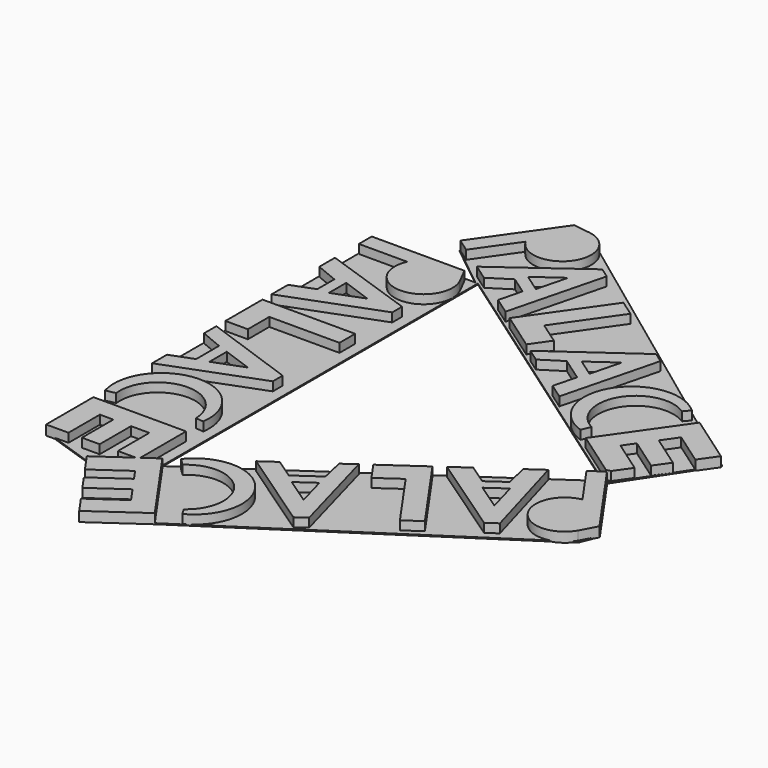
from build123d import *

# Parameters (mm, degrees)
F2_DEPTH = 1
F3_DEPTH = 10


with BuildPart() as f2:
    # F1 (on Top) → F2 (new body)
    with BuildSketch(Plane.XY):
        Polygon((-226.83852911, 285.3676080704), (-330.4502665997, 285.3676080704), (-330.4502665997, -127.9011815786), (-275.1610279083, -146.5770155191), (-217.2150909901, -228.7170141935), (99.112868309, -21.2409384549), (114.4544035196, -11.0132452101), (121.75989151, 7.2504929267), (69.1187903285, 82.455560565), (99.112868309, 127.9149800539), (121.75989151, 162.2391065877), (-183.9673221111, 388.3162736893), (-197.1797352515, 397.0338102196), (-216.9105261564, 397.0338102196), (-271.2074220181, 320.6196725369), align=None)
        Polygon((-224.5237231255, -116.2474501983), (-224.5237231255, 285.3676080704), (64.9221166968, 82.455560565), align=None, mode=Mode.SUBTRACT)
    extrude(amount=F2_DEPTH)

    # F0 (on Top) → F3 (join)
    with BuildSketch(Plane.XY):
        with BuildLine():
            Line((-227.3512201192, 265.8828980349), (-235.6984035852, 282.239127817))
            Line((-235.6984035852, 282.239127817), (-329.7849016073, 282.239127817))
            Line((-329.7849016073, 282.239127817), (-329.7849016073, 265.8828980349))
            Line((-329.7849016073, 265.8828980349), (-280.6508259656, 265.8828980349))
            ThreePointArc((-280.6508259656, 265.8828980349), (-254.0010230424, 224.069859552), (-227.3512201192, 265.8828980349))
        make_face()
        Polygon((-235.6984035852, 203.1585759543), (-329.7849016073, 235.5661428593), (-329.7849016073, 215.7034463309), (-307.015478478, 206.2948084496), (-307.015478478, 184.5798344636), (-329.7849016073, 175.978053274), (-329.7849016073, 155.0699359797), (-235.6984035852, 190.6137204789), align=None)
        Polygon((-295.8364410133, 185.4400217375), (-295.8364410133, 207.4587263802), (-265.8109271711, 196.782992471), align=None, mode=Mode.SUBTRACT)
        Polygon((-235.6984035852, 123.7077749394), (-235.6984035852, 143.5704714678), (-329.7849016073, 143.5704714678), (-329.7849016073, 96.5272448085), (-307.015478478, 96.5272448085), (-307.015478478, 123.7077749394), align=None)
        Polygon((-235.6984035852, 51.5748093896), (-329.7849016073, 85.0277728461), (-329.7849016073, 69.3753733359), (-307.015478478, 59.9667354547), (-307.015478478, 30.9052338177), (-329.7849016073, 22.3034526281), (-329.7849016073, 3.4861610331), (-235.6984035852, 39.0299455322), align=None)
        Polygon((-295.9159033182, 33.8996112406), (-295.9159033182, 55.9183158833), (-265.890389476, 45.2425819742), align=None, mode=Mode.SUBTRACT)
        Polygon((-235.6984035852, -71.0359775402), (-329.7849016073, -71.0359775402), (-329.7849016073, -131.0788803674), (-307.015478478, -131.0788803674), (-307.015478478, -91.2322440125), (-293.3984415414, -91.2322440125), (-293.3984415414, -131.0788803674), (-275.3855602624, -131.0788803674), (-275.3855602624, -91.2322440125), (-256.8268494489, -91.2322440125), (-256.8268494489, -131.0788803674), (-238.5353398542, -131.0788803674), (-235.6984035852, -129.0924362064), align=None)
        Polygon((-221.3561364008, -119.0498726089), (-235.6984035852, -129.0924362064), (-235.6984035852, -131.0788803674), (-238.5353398542, -131.0788803674), (-270.5404029968, -153.4890668407), (-257.4803984205, -172.1406863443), (-224.8399447923, -149.2855946633), (-217.0295332726, -160.440018307), (-249.6699869008, -183.2951099881), (-239.3382226484, -198.0503985113), (-206.6977690202, -175.1953068303), (-196.0529298085, -190.3977127325), (-228.6933834367, -213.2528044136), (-216.5746047525, -230.5602140355), (-167.3903381565, -196.1210198036), align=None)
        Polygon((-235.6984035852, -131.0788803674), (-235.6984035852, -129.0924362064), (-238.5353398542, -131.0788803674), align=None)
        with BuildLine():
            Line((-243.7297092712, -48.4571140093), (-235.6984035852, -49.2022001125))
            ThreePointArc((-235.6984035852, -49.2022001125), (-287.1351686439, 5.5040811462), (-329.7849016073, -56.2981703259))
            Line((-329.7849016073, -56.2981703259), (-320.0046324228, -54.2623124856))
            ThreePointArc((-320.0046324228, -54.2623124856), (-284.9299131703, -11.1181200793), (-243.7297092712, -48.4571140093))
        make_face()
        with BuildLine():
            Line((113.3851952763, -9.7099042121), (121.9956865932, 6.5092561787))
            Line((121.9956865932, 6.5092561787), (69.1715097794, 81.949999003))
            Line((69.1715097794, 81.949999003), (67.0141277629, 82.8691601541))
            Line((67.0141277629, 82.8691601541), (54.6316492861, 74.1988553829))
            Line((54.6316492861, 74.1988553829), (82.813797296, 33.9505768768))
            ThreePointArc((82.813797296, 33.9505768768), (63.8482603349, -11.8626372737), (113.3851952763, -9.7099042121))
        make_face()
        Polygon((57.2166908714, -38.8494849434), (29.7976173078, 56.8098789875), (13.5270488414, 45.4171042964), (18.8799484633, 21.3689118059), (1.0920831309, 8.9137144116), (-19.0140880913, 22.6315549142), (-36.1410151152, 10.6391515058), (46.9405468634, -46.0449184416), align=None)
        Polygon((8.2087397657, 0.2497661704), (26.2454066863, 12.8791763124), (34.7222846596, -17.8396341433), align=None, mode=Mode.SUBTRACT)
        Polygon((-7.8655952004, -84.4205922548), (8.404973266, -73.0278175637), (-45.5608249783, 4.0433296311), (-84.0963802662, -22.9395566706), (-71.0363756899, -41.5911761742), (-48.7713888684, -26.0010645637), align=None)
        Polygon((-66.9534613912, -125.7943615783), (-93.5161962325, -29.5353828187), (-106.3378912893, -38.5132303501), (-100.9849916674, -62.5614228406), (-124.7907801434, -79.2304153846), (-144.8969513657, -65.5125748819), (-160.3111742437, -76.3057299368), (-77.2296122652, -132.9897998841), align=None)
        Polygon((-115.9714749909, -86.6051507361), (-97.9348080703, -73.9757405941), (-89.457930097, -104.6945510498), align=None, mode=Mode.SUBTRACT)
        with BuildLine():
            Line((-153.5013836321, -176.5914552517), (-149.5051547421, -183.5976795546))
            ThreePointArc((-149.5051547421, -183.5976795546), (-134.1953090135, -110.0849144548), (-209.2836314929, -110.5966136673))
            Line((-209.2836314929, -110.5966136673), (-202.0062224357, -117.4404210785))
            ThreePointArc((-202.0062224357, -117.4404210785), (-146.5465365521, -121.4254569274), (-153.5013836321, -176.5914552517))
        make_face()
        with BuildLine():
            Line((-198.3886179437, 395.177085192), (-216.5746047525, 397.7210207824))
            Line((-216.5746047525, 397.7210207824), (-270.5404029968, 320.6498735876))
            Line((-270.5404029968, 320.6498735876), (-257.1421639339, 311.268325597))
            Line((-257.1421639339, 311.268325597), (-228.960015924, 351.5166041031))
            ThreePointArc((-228.960015924, 351.5166041031), (-179.4230809826, 349.3638710415), (-198.3886179437, 395.177085192))
        make_face()
        Polygon((-151.7956090307, 352.3622796603), (-232.3081319556, 293.8793492017), (-216.0375634893, 282.4865745106), (-195.2704539586, 295.7416210274), (-177.4825886262, 283.286423633), (-183.4964265565, 259.7010251284), (-166.3694995327, 247.7086217199), (-141.5194650227, 345.1668461621), align=None)
        Polygon((-171.7751803193, 292.9371381766), (-189.8118472399, 305.5665483186), (-163.8448707548, 324.0386599522), align=None, mode=Mode.SUBTRACT)
        Polygon((-86.7133229589, 306.7911723489), (-102.9838914253, 318.18394704), (-156.9496896695, 241.1127998452), (-118.4141343816, 214.1299135435), (-105.3541298054, 232.7815330472), (-127.6191166269, 248.3716446578), align=None)
        Polygon((-27.6254567682, 265.4174030254), (-108.9943184153, 207.5340873954), (-96.1726233586, 198.556239864), (-75.4055138279, 211.8112863808), (-51.5997253518, 195.1422938369), (-57.6135632822, 171.5568953322), (-42.1993404041, 160.7637402774), (-17.3493058941, 258.2219647196), align=None)
        Polygon((-47.6861209741, 205.9520378511), (-65.7227878947, 218.5814479931), (-39.7558114095, 237.0535596267), align=None, mode=Mode.SUBTRACT)
        Polygon((72.8114199972, 195.0907448001), (18.845621753, 118.0195976053), (65.6599034389, 85.2398846729), (70.0077556566, 86.4050906265), (81.0898929252, 102.2320228771), (48.449439297, 125.0871145581), (56.2598508168, 136.2415382019), (88.9003044449, 113.3864465208), (99.2320686974, 128.141735044), (66.5916150692, 150.9968267251), (77.2364542809, 166.1992326273), (109.8769079091, 143.3441409463), (121.9956865932, 160.6515505682), align=None)
        with BuildLine():
            Line((49.7093300835, 201.46258841), (54.9262365828, 207.6140850491))
            ThreePointArc((54.9262365828, 207.6140850491), (-19.3894419455, 196.85778765), (6.7731168451, 126.4728565469))
            Line((6.7731168451, 126.4728565469), (10.7151716787, 135.652104128))
            ThreePointArc((10.7151716787, 135.652104128), (-4.5084492553, 189.1301242361), (49.7093300835, 201.46258841))
        make_face()
    extrude(amount=F3_DEPTH)


solid = f2.part
